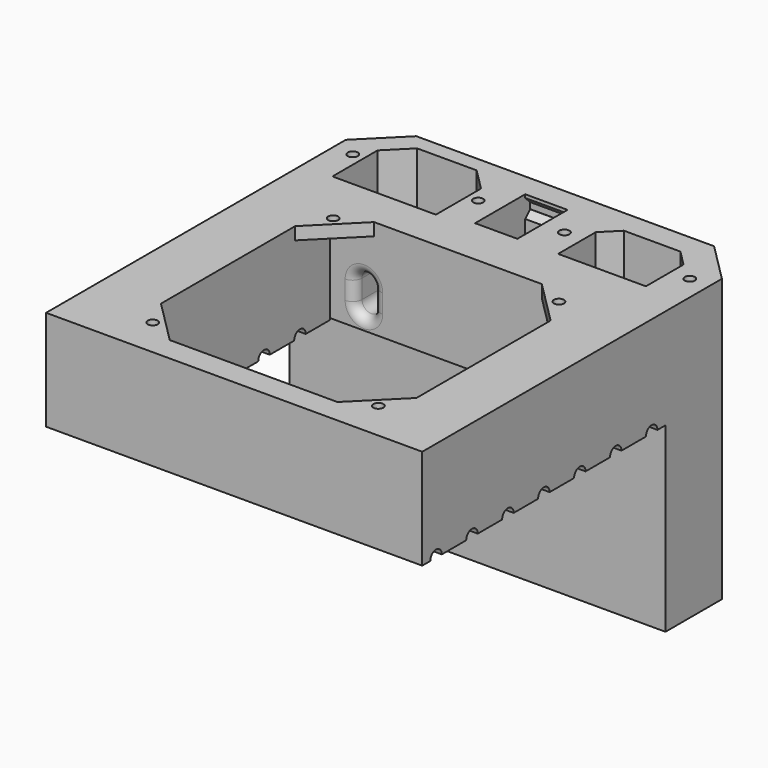
from build123d import *

# Parameters (mm, degrees)
SKETCH_R        = 1.6
SKETCH_W        = 81.5
SKETCH_H        = 81.5
PAD_DEPTH       = 90
POCKET_DEPTH    = 120.001
SKETCH002_R     = 1.6
PAD001_DEPTH    = 4
POCKET001_DEPTH = 30
CHAMFER_SIZE    = 12.5
SKETCH005_W     = 13.5
SKETCH005_H     = 20
POCKET002_DEPTH = 90.001
SKETCH006_W     = 13.5
SKETCH006_H     = 24
POCKET003_DEPTH = 1
CHAMFER001_SIZE = 1.95
POCKET004_DEPTH = 15
FILLET_R        = 3


with BuildPart() as part:
    # Sketch → Pad (new body)
    with BuildSketch(Plane.XY):
        Polygon((-60, -48.5), (60, -48.5), (60, 48.5), (60, 83.5), (-60, 83.5), (-60, 48.5), align=None)
        with Locations((-53.75, 66)):
            Circle(SKETCH_R, mode=Mode.SUBTRACT)
        with Locations((-13.75, 66)):
            Circle(SKETCH_R, mode=Mode.SUBTRACT)
        with Locations((13.75, 66)):
            Circle(SKETCH_R, mode=Mode.SUBTRACT)
        with Locations((53.75, 66)):
            Circle(SKETCH_R, mode=Mode.SUBTRACT)
        Rectangle(SKETCH_W, SKETCH_H, mode=Mode.SUBTRACT)
        Polygon((-50.25, 53.5), (-17.25, 53.5), (-17.25, 71.5), (-24.25, 78.5), (-43.25, 78.5), (-50.25, 71.5), align=None, mode=Mode.SUBTRACT)
        Polygon((19.75, 56), (47.75, 56), (47.75, 71), (42.75, 76), (24.75, 76), (19.75, 71), align=None, mode=Mode.SUBTRACT)
    extrude(amount=PAD_DEPTH)

    # Sketch001 (on Face26 of Pad) → Pocket (cut, through all)
    with BuildSketch(Plane.YZ.offset(60)):
        with BuildLine():
            ThreePointArc((-40.7, 58), (-43, 60.3), (-45.3, 58))
            Line((-45.3, 58), (-48.5, 58))
            Line((-48.5, 0), (-48.5, 58))
            Line((-48.5, 0), (48.5, -0.061623))
            Line((48.5, -0.061623), (48.5, 58))
            Line((48.5, 58), (45.3, 58))
            ThreePointArc((45.3, 58), (43, 60.3), (40.7, 58))
            Line((30.966667, 58), (40.7, 58))
            ThreePointArc((30.966667, 58), (28.666667, 60.3), (26.366667, 58))
            Line((16.633333, 58), (26.366667, 58))
            ThreePointArc((16.633333, 58), (14.333333, 60.3), (12.033333, 58))
            Line((2.3, 58), (12.033333, 58))
            ThreePointArc((2.3, 58), (0, 60.3), (-2.3, 58))
            Line((-12.033333, 58), (-2.3, 58))
            ThreePointArc((-12.033333, 58), (-14.333333, 60.3), (-16.633333, 58))
            Line((-26.366667, 58), (-16.633333, 58))
            ThreePointArc((-26.366667, 58), (-28.666667, 60.3), (-30.966667, 58))
            Line((-40.7, 58), (-30.966667, 58))
        make_face()
    extrude(amount=-POCKET_DEPTH, mode=Mode.SUBTRACT)

    # Sketch002 (on Face24 of Pad) → Pad001 (join)
    with BuildSketch(Plane.XY.offset(90)):
        Polygon((-40.75, -40.75), (-40.75, -26.75), (-26.75, -40.75), align=None)
        with Locations((-36, -36)):
            Circle(SKETCH002_R, mode=Mode.SUBTRACT)
        Polygon((40.75, -40.75), (26.75, -40.75), (40.75, -26.75), align=None)
        with Locations((36, -36)):
            Circle(SKETCH002_R, mode=Mode.SUBTRACT)
        Polygon((40.75, 40.75), (40.75, 26.75), (26.75, 40.75), align=None)
        with Locations((36, 36)):
            Circle(SKETCH002_R, mode=Mode.SUBTRACT)
        Polygon((-40.75, 40.75), (-26.75, 40.75), (-40.75, 26.75), align=None)
        with Locations((-36, 36)):
            Circle(SKETCH002_R, mode=Mode.SUBTRACT)
    extrude(amount=-PAD001_DEPTH)

    # Sketch004 (on Face7 of Pad001) → Pocket001 (cut)
    with BuildSketch(Plane(origin=(0, 0, 0), x_dir=(1, 0, 0), z_dir=(0, 0, -1))):
        Polygon((-17.25, -53.5), (19.75, -56), (47.75, -56), (47.75, -71), (42.75, -76), (24.75, -76), (-24.25, -78.5), (-43.25, -78.5), (-50.25, -71.5), (-50.25, -53.5), align=None)
    extrude(amount=-POCKET001_DEPTH, mode=Mode.SUBTRACT)

    # Chamfer
    chamfer_edges = [part.edges().sort_by_distance(p)[0] for p in [
        (60, 83.5, 45),
        (-60, 83.5, 45),
    ]]
    chamfer(chamfer_edges, length=CHAMFER_SIZE)

    # Sketch005 → Pocket002 (cut, through all)
    with BuildSketch(Plane.XY.offset(90)):
        with Locations((0, 66)):
            Rectangle(SKETCH005_W, SKETCH005_H)
    extrude(amount=-POCKET002_DEPTH, mode=Mode.SUBTRACT)

    # Sketch006 (on Face8 of Pocket002) → Pocket003 (cut, symmetric)
    with BuildSketch(Plane.XY.offset(86)):
        with Locations((0, 66)):
            Rectangle(SKETCH006_W, SKETCH006_H)
    extrude(amount=POCKET003_DEPTH, both=True, mode=Mode.SUBTRACT)

    # Chamfer001
    chamfer001_edges = [part.edges().sort_by_distance(p)[0] for p in [
        (0, 76, 87),
        (0, 76, 85),
        (0, 56, 87),
        (0, 56, 85),
    ]]
    chamfer(chamfer001_edges, length=CHAMFER001_SIZE)

    # Sketch007 (on Face33 of Chamfer001) → Pocket004 (cut)
    with BuildSketch(Plane.XZ.offset(-40.75)):
        with BuildLine():
            ThreePointArc((-27, 71), (-30, 74), (-33, 71))
            Line((-33, 71), (-33, 65))
            ThreePointArc((-33, 65), (-30, 62), (-27, 65))
            Line((-27, 71), (-27, 65))
        make_face()
    extrude(amount=-POCKET004_DEPTH, mode=Mode.SUBTRACT)

    # Fillet
    fillet_edges = [part.edges().sort_by_distance(p)[0] for p in [
        (-30, 53.5, 62),
        (-33, 40.75, 68),
    ]]
    fillet(fillet_edges, radius=FILLET_R)


solid = part.part
